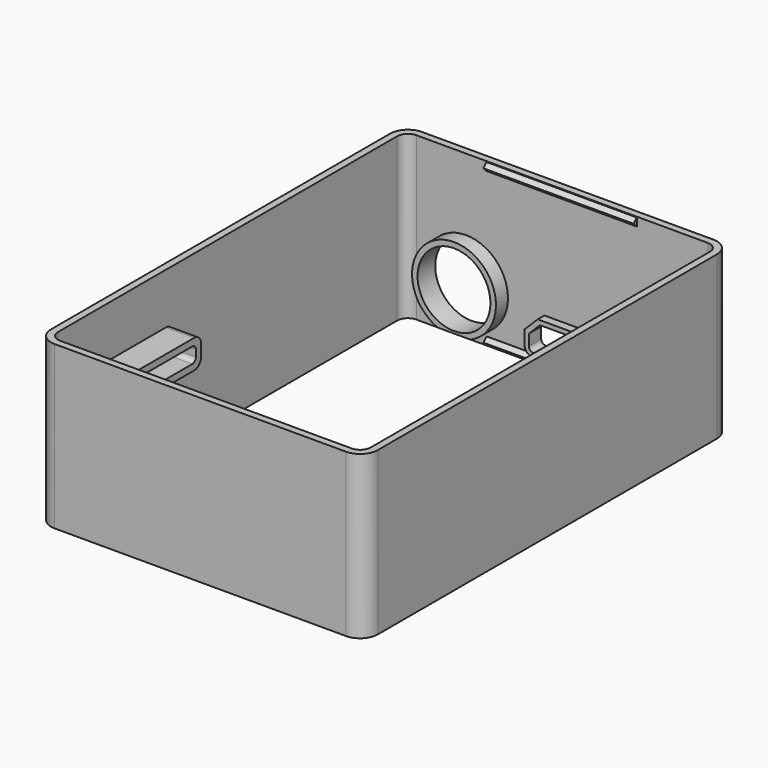
from build123d import *

# Parameters (mm, degrees)
BOX031_W                   = 12
BOX031_H                   = 3.5
BOX031_DEPTH               = 6
CHAMFER006_SIZE            = 2.5
FILLET022_R                = 1
CYLINDER009_R              = 8.25
CYLINDER009_DEPTH          = 5
BOX037_W                   = 8
BOX037_H                   = 26
BOX037_DEPTH               = 3.5
CYLINDER008_R              = 3
CYLINDER008_DEPTH          = 4
BOX028_W                   = 34
BOX028_H                   = 0.9
BOX028_DEPTH               = 1.8
CHAMFER003_SIZE            = 0.89
CHAMFER003_PLACEMENT_ANGLE = 180
CHAMFER005_SIZE            = 0.89
CHAMFER005_PLACEMENT_ANGLE = 180
CHAMFER004_SIZE            = 0.89
BOX030_W                   = 70.8
BOX030_H                   = 100.8
BOX030_DEPTH               = 36.75
FILLET018_R                = 2.4
BOX029_W                   = 74
BOX029_H                   = 104
BOX029_DEPTH               = 36.75
FILLET019_R                = 4
CHAMFER002_SIZE            = 0.89
BOX033_W                   = 9
BOX033_H                   = 4.75
BOX033_DEPTH               = 2
TUBE008_R                  = 4.5
TUBE008_R_2                = 3
TUBE008_DEPTH              = 4.75
BOX034_W                   = 19
BOX034_H                   = 5
BOX034_DEPTH               = 2
TUBE009_R                  = 9.5
TUBE009_R_2                = 8.25
TUBE009_DEPTH              = 5
BOX035_W                   = 8
BOX035_H                   = 26
BOX035_DEPTH               = 3.5
BOX036_W                   = 8
BOX036_H                   = 29
BOX036_DEPTH               = 6.5
FILLET023_1_R              = 2
FILLET023_2_R              = 1
FILLET020_R                = 1
BOX032_W                   = 14
BOX032_H                   = 3.5
BOX032_DEPTH               = 8
CHAMFER008_SIZE            = 3
FILLET021_R                = 2


with BuildPart() as chamfer006:
    # Box031 → Box031 (new body)
    with BuildSketch(Plane(origin=(-6, 63.5, -30), x_dir=(1, 0, 0), z_dir=(0, 0, 1))):
        with Locations((6, 1.75)):
            Rectangle(BOX031_W, BOX031_H)
    extrude(amount=BOX031_DEPTH)

    # Chamfer006
    chamfer006_edges = [chamfer006.edges().sort_by_distance(p)[0] for p in [
        (-6, 65.25, -24),
        (6, 65.25, -24),
    ]]
    chamfer(chamfer006_edges, length=CHAMFER006_SIZE)


with BuildPart() as fillet022:
    # Fillet022 base: copy of Chamfer006
    add(chamfer006.part)

    # Fillet022
    fillet022_edges = [fillet022.edges().sort_by_distance(p)[0] for p in [
        (-6, 65.25, -30),
        (6, 65.25, -30),
    ]]
    fillet(fillet022_edges, radius=FILLET022_R)


with BuildPart() as cylinder009:
    # Cylinder009 → Cylinder009 (new body)
    with BuildSketch(Plane(origin=(-21.75, 67, -22.25), x_dir=(1, 0, 0), z_dir=(0, -1, 0))):
        Circle(CYLINDER009_R)
    extrude(amount=CYLINDER009_DEPTH)


with BuildPart() as cube022:
    # Box037 → Box037 (new body)
    with BuildSketch(Plane(origin=(-37, -28, -13), x_dir=(1, 0, 0), z_dir=(0, 0, 1))):
        with Locations((4, 13)):
            Rectangle(BOX037_W, BOX037_H)
    extrude(amount=BOX037_DEPTH)


with BuildPart() as portcuts:
    # Cylinder008 → Cylinder008 (new body)
    with BuildSketch(Plane(origin=(21.3, 67, -28.35), x_dir=(1, 0, 0), z_dir=(0, -1, 0))):
        Circle(CYLINDER008_R)
    extrude(amount=CYLINDER008_DEPTH)

    # Fusion025: union Fillet022, Cylinder009, Cube022
    add(fillet022.part)
    add(cylinder009.part)
    add(cube022.part)


with BuildPart() as cube015:
    # Box028 → Box028 (new body)
    with BuildSketch(Plane(origin=(-17, 39, 32), x_dir=(1, 0, 0), z_dir=(0, 0, 1))):
        with Locations((17, 0.45)):
            Rectangle(BOX028_W, BOX028_H)
    extrude(amount=BOX028_DEPTH)


with BuildPart() as snapedge001:
    # Chamfer003 base: copy of Cube015
    add(cube015.part)

    # Chamfer003
    chamfer003_edges = [snapedge001.edges().sort_by_distance(p)[0] for p in [
        (0, 39, 32),
        (0, 39, 33.8),
    ]]
    chamfer(chamfer003_edges, length=CHAMFER003_SIZE)


with BuildPart() as snapedge001_1:
    # Chamfer003 placement: moved
    add(snapedge001.part.moved(Location((0, 4.6, -30.4))).rotate(Axis((0, 4.6, -30.4), (0, 0, 1)), CHAMFER003_PLACEMENT_ANGLE))


with BuildPart() as snapedge003:
    # Chamfer005 base: copy of Cube015
    add(cube015.part)

    # Chamfer005
    chamfer005_edges = [snapedge003.edges().sort_by_distance(p)[0] for p in [
        (0, 39, 32),
        (0, 39, 33.8),
    ]]
    chamfer(chamfer005_edges, length=CHAMFER005_SIZE)


with BuildPart() as snapedge003_1:
    # Chamfer005 placement: moved
    add(snapedge003.part.moved(Location((0, 4.6, -65.15))).rotate(Axis((0, 4.6, -65.15), (0, 0, 1)), CHAMFER005_PLACEMENT_ANGLE))


with BuildPart() as snapedge002:
    # Chamfer004 base: copy of Cube015
    add(cube015.part)

    # Chamfer004
    chamfer004_edges = [snapedge002.edges().sort_by_distance(p)[0] for p in [
        (0, 39, 32),
        (0, 39, 33.8),
    ]]
    chamfer(chamfer004_edges, length=CHAMFER004_SIZE)


with BuildPart() as snapedge002_1:
    # Chamfer004 placement: moved
    add(snapedge002.part.moved(Location((0, 25.4, -65.15))))


with BuildPart() as fillet018:
    # Box030 → Box030 (new body)
    with BuildSketch(Plane(origin=(-35.4, -35.4, -33.25), x_dir=(1, 0, 0), z_dir=(0, 0, 1))):
        with Locations((35.4, 50.4)):
            Rectangle(BOX030_W, BOX030_H)
    extrude(amount=BOX030_DEPTH)

    # Fillet018
    fillet018_edges = [fillet018.edges().sort_by_distance(p)[0] for p in [
        (-35.4, -35.4, -14.875),
        (-35.4, 65.4, -14.875),
        (35.4, -35.4, -14.875),
        (35.4, 65.4, -14.875),
    ]]
    fillet(fillet018_edges, radius=FILLET018_R)


with BuildPart() as obj1:
    # Box029 → Box029 (new body)
    with BuildSketch(Plane(origin=(-37, -37, -33.25), x_dir=(1, 0, 0), z_dir=(0, 0, 1))):
        with Locations((37, 52)):
            Rectangle(BOX029_W, BOX029_H)
    extrude(amount=BOX029_DEPTH)

    # Fillet019
    fillet019_edges = [obj1.edges().sort_by_distance(p)[0] for p in [
        (-37, -37, -14.875),
        (-37, 67, -14.875),
        (37, -37, -14.875),
        (37, 67, -14.875),
    ]]
    fillet(fillet019_edges, radius=FILLET019_R)

    # Cut010: cut Fillet018
    add(fillet018.part, mode=Mode.SUBTRACT)


with BuildPart() as cut016:
    # Chamfer002 base: copy of Cube015
    add(cube015.part)

    # Chamfer002
    chamfer002_edges = [cut016.edges().sort_by_distance(p)[0] for p in [
        (0, 39, 32),
        (0, 39, 33.8),
    ]]
    chamfer(chamfer002_edges, length=CHAMFER002_SIZE)


with BuildPart() as cut016_1:
    # Chamfer002 placement: moved
    add(cut016.part.moved(Location((0, 25.4, -30.4))))

    # Fusion022: union SnapEdge001, SnapEdge003, SnapEdge002, obj1
    add(snapedge001_1.part)
    add(snapedge003_1.part)
    add(snapedge002_1.part)
    add(obj1.part)

    # Cut016: cut PortCuts
    add(portcuts.part, mode=Mode.SUBTRACT)


with BuildPart() as cube018:
    # Box033 → Box033 (new body)
    with BuildSketch(Plane(origin=(16.8, 62.25, -33), x_dir=(1, 0, 0), z_dir=(0, 0, 1))):
        with Locations((4.5, 2.375)):
            Rectangle(BOX033_W, BOX033_H)
    extrude(amount=BOX033_DEPTH)


with BuildPart() as cut013:
    # Tube008 → Tube008 (new body)
    with BuildSketch(Plane(origin=(21.3, 67, -28.35), x_dir=(1, 0, 0), z_dir=(0, -1, 0))):
        Circle(TUBE008_R)
        Circle(TUBE008_R_2, mode=Mode.SUBTRACT)
    extrude(amount=TUBE008_DEPTH)

    # Cut013: cut Cube018
    add(cube018.part, mode=Mode.SUBTRACT)


with BuildPart() as cube019:
    # Box034 → Box034 (new body)
    with BuildSketch(Plane(origin=(-31.2, 62, -33), x_dir=(1, 0, 0), z_dir=(0, 0, 1))):
        with Locations((9.5, 2.5)):
            Rectangle(BOX034_W, BOX034_H)
    extrude(amount=BOX034_DEPTH)


with BuildPart() as cut014:
    # Tube009 → Tube009 (new body)
    with BuildSketch(Plane(origin=(-21.75, 67, -22.25), x_dir=(1, 0, 0), z_dir=(0, -1, 0))):
        Circle(TUBE009_R)
        Circle(TUBE009_R_2, mode=Mode.SUBTRACT)
    extrude(amount=TUBE009_DEPTH)

    # Cut014: cut Cube019
    add(cube019.part, mode=Mode.SUBTRACT)


with BuildPart() as cube020:
    # Box035 → Box035 (new body)
    with BuildSketch(Plane(origin=(-37, -28, -13), x_dir=(1, 0, 0), z_dir=(0, 0, 1))):
        with Locations((4, 13)):
            Rectangle(BOX035_W, BOX035_H)
    extrude(amount=BOX035_DEPTH)


with BuildPart() as fillet023:
    # Box036 → Box036 (new body)
    with BuildSketch(Plane(origin=(-37, -29.5, -14.5), x_dir=(1, 0, 0), z_dir=(0, 0, 1))):
        with Locations((4, 14.5)):
            Rectangle(BOX036_W, BOX036_H)
    extrude(amount=BOX036_DEPTH)

    # Cut015: cut Cube020
    add(cube020.part, mode=Mode.SUBTRACT)

    # Fillet023 1
    fillet023_1_edges = [fillet023.edges().sort_by_distance(p)[0] for p in [
        (-33, -29.5, -14.5),
        (-33, -29.5, -8),
        (-33, -0.5, -8),
        (-33, -0.5, -14.5),
    ]]
    fillet(fillet023_1_edges, radius=FILLET023_1_R)

    # Fillet023 2
    fillet023_2_edges = [fillet023.edges().sort_by_distance(p)[0] for p in [
        (-33, -28, -13),
        (-33, -28, -9.5),
        (-33, -2, -13),
        (-33, -2, -9.5),
    ]]
    fillet(fillet023_2_edges, radius=FILLET023_2_R)


with BuildPart() as fillet020:
    # Fillet020 base: copy of Chamfer006
    add(chamfer006.part)

    # Fillet020
    fillet020_edges = [fillet020.edges().sort_by_distance(p)[0] for p in [
        (-6, 65.25, -30),
        (6, 65.25, -30),
    ]]
    fillet(fillet020_edges, radius=FILLET020_R)


with BuildPart() as framesnap:
    # Box032 → Box032 (new body)
    with BuildSketch(Plane(origin=(-7, 63.5, -31), x_dir=(1, 0, 0), z_dir=(0, 0, 1))):
        with Locations((7, 1.75)):
            Rectangle(BOX032_W, BOX032_H)
    extrude(amount=BOX032_DEPTH)

    # Chamfer008
    chamfer008_edges = [framesnap.edges().sort_by_distance(p)[0] for p in [
        (-7, 65.25, -23),
        (7, 65.25, -23),
    ]]
    chamfer(chamfer008_edges, length=CHAMFER008_SIZE)

    # Fillet021
    fillet021_edges = [framesnap.edges().sort_by_distance(p)[0] for p in [
        (-7, 65.25, -31),
        (7, 65.25, -31),
    ]]
    fillet(fillet021_edges, radius=FILLET021_R)

    # Cut011: cut Fillet020
    add(fillet020.part, mode=Mode.SUBTRACT)

    # Fusion026: union Cut013, Cut014, Fillet023
    add(cut013.part)
    add(cut014.part)
    add(fillet023.part)

    # Fusion027: union Cut016
    add(cut016_1.part)


solid = framesnap.part
